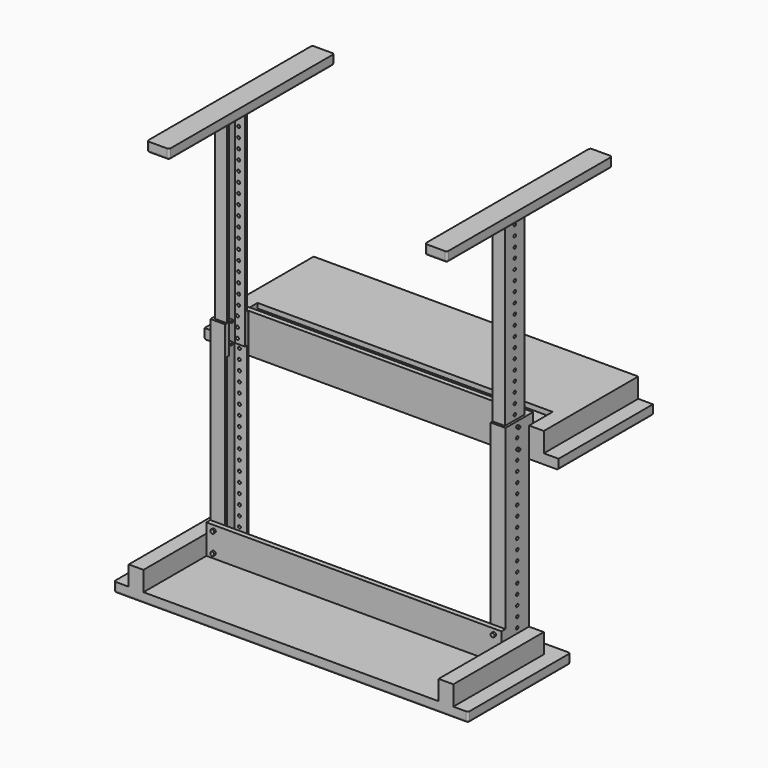
from build123d import *

# Parameters (mm, degrees)
F0_W      = 914.4
F0_H      = 330.2
F1_DEPTH  = 25.4
F3_DEPTH  = 50.8
F4_DEPTH  = 76.2
F2_W      = 6.35
F2_H      = 63.5
F5_DEPTH  = 533.4
F6_R      = 5.08
F7_DEPTH  = 5.08
F8_W      = 25.4
F8_H      = 6.35
F8_W_2    = 6.35
F8_H_2    = 50.8
F9_DEPTH  = 76.2
F10_DEPTH = 457.2
F11_W     = 6.35
F11_H     = 6.35
F11_H_2   = 50.8
F11_W_2   = 25.4
F12_DEPTH = 76.2
F13_DEPTH = 457.2
F14_R     = 3.81
F15_DEPTH = 50.8
F17_DEPTH = 38.1
F16_R     = 3.81
F18_DEPTH = 38.1
F19_R     = 3.81
F20_DEPTH = 25.4
F21_DEPTH = 6.35
F22_DEPTH = 25.4
F24_DEPTH = 6.35
F26_DEPTH = 5.08
F27_DEPTH = 25.4
F23_R     = 3.81
F28_DEPTH = 25.4
F29_R     = 3.81
F30_DEPTH = 25.4
F31_R     = 3.81
F32_DEPTH = 25.4
F33_R     = 3.81
F34_DEPTH = 25.4
F35_R     = 3.81
F36_DEPTH = 25.4
F37_W     = 723.9
F37_H     = 76.2
F37_W_2   = 38.1
F37_R     = 3.81
F38_DEPTH = 12.7
F37_W_3   = 76.2
F37_H_2   = 25.4
F39_DEPTH = 304.8
F41_DEPTH = 50.8
F42_R     = 5.08
F42_R_2   = 3.81
F43_DEPTH = 5.08
F44_R     = 5.08
F45_DEPTH = 5.08
F44_R_2   = 3.81
F46_DEPTH = 12.7
F47_W     = 31.75
F47_H     = 63.5
F48_DEPTH = 25.4
F49_W     = 31.75
F49_H     = 25.4
F50_DEPTH = 203.2
F51_DEPTH = 330.2
F52_W     = 31.75
F52_H     = 63.5
F53_DEPTH = 25.4
F54_W     = 31.75
F54_H     = 25.4
F55_DEPTH = 203.2
F56_DEPTH = 330.2
F58_DEPTH = 12.7
F59_DEPTH = 44.45
F60_W     = 533.4
F60_H     = 25.4
F61_DEPTH = 12.7
F62_DEPTH = 44.45
F63_R     = 5.08
F64_R     = 5.08
F65_R     = 5.08
F66_R     = 5.08
F67_R     = 5.08
F68_R     = 5.08
F69_R     = 5.08
F70_W     = 228.6
F70_H     = 12.7
F71_DEPTH = 767.08
F72_R     = 38.1
F73_DEPTH = 10.16
F72_R_2   = 44.45
F74_DEPTH = 15.24
F75_R     = 5.08


with BuildPart() as f1:
    # F0 (on Top) → F1 (new body)
    with BuildSketch(Plane.XY):
        Rectangle(F0_W, F0_H)
    extrude(amount=F1_DEPTH)

    # F2 (on face) → F3 (join)
    with BuildSketch(Plane.XY.offset(25.4)):
        Polygon((-381, 127), (-419.1, 127), (-419.1, -165.1), (-381, -165.1), (-381, 38.1), (-381, 50.8), (-381, 57.15), (-381, 120.65), align=None)
        Polygon((419.1, 127), (381, 127), (381, 120.65), (381, 57.15), (381, 50.8), (381, 38.1), (381, -165.1), (419.1, -165.1), align=None)
    extrude(amount=F3_DEPTH)

    # F2 (on face) → F4 (join)
    with BuildSketch(Plane.XY.offset(25.4)):
        Polygon((-381, 50.8), (-381, 38.1), (381, 38.1), (381, 50.8), (342.9, 50.8), (-342.9, 50.8), align=None)
    extrude(amount=F4_DEPTH)

    # F2 (on face) → F5 (join)
    with BuildSketch(Plane.XY.offset(25.4)):
        with Locations((-377.825, 88.9)):
            Rectangle(F2_W, F2_H)
        Polygon((-342.9, 127), (-381, 127), (-381, 120.65), (-374.65, 120.65), (-342.9, 120.65), align=None)
        Polygon((-374.65, 57.15), (-381, 57.15), (-381, 50.8), (-342.9, 50.8), (-342.9, 57.15), align=None)
        Polygon((381, 120.65), (381, 127), (342.9, 127), (342.9, 120.65), (374.65, 120.65), align=None)
        with Locations((377.825, 88.9)):
            Rectangle(F2_W, F2_H)
        Polygon((381, 50.8), (381, 57.15), (374.65, 57.15), (342.9, 57.15), (342.9, 50.8), align=None)
    extrude(amount=F5_DEPTH)

    # F6 (on face) → F7 (join)
    with BuildSketch(Plane.XZ.offset(-38.1)):
        with Locations((-361.95, 88.9)):
            Circle(F6_R)
        with Locations((-361.95, 38.1)):
            Circle(F6_R)
        with Locations((361.95, 88.9)):
            Circle(F6_R)
        with Locations((361.95, 38.1)):
            Circle(F6_R)
    extrude(amount=F7_DEPTH)

    # F8 (on face) → F9 (join)
    with BuildSketch(Plane.XY.offset(558.8)):
        with Locations((355.6, 117.475)):
            Rectangle(F8_W, F8_H)
        with Locations((355.6, 60.325)):
            Rectangle(F8_W, F8_H)
        with Locations((371.475, 60.325)):
            Rectangle(F8_W_2, F8_H)
        with Locations((371.475, 88.9)):
            Rectangle(F8_W_2, F8_H_2)
        with Locations((371.475, 117.475)):
            Rectangle(F8_W_2, F8_H)
    extrude(amount=-F9_DEPTH)

    # F8 (on face) → F10 (join)
    with BuildSketch(Plane.XY.offset(558.8)):
        with Locations((355.6, 117.475)):
            Rectangle(F8_W, F8_H)
        with Locations((371.475, 117.475)):
            Rectangle(F8_W_2, F8_H)
        with Locations((371.475, 88.9)):
            Rectangle(F8_W_2, F8_H_2)
        with Locations((371.475, 60.325)):
            Rectangle(F8_W_2, F8_H)
        with Locations((355.6, 60.325)):
            Rectangle(F8_W, F8_H)
    extrude(amount=F10_DEPTH)

    # F11 (on face) → F12 (join)
    with BuildSketch(Plane.XY.offset(558.8)):
        with Locations((-371.475, 117.475)):
            Rectangle(F11_W, F11_H)
        Polygon((-342.9, 120.65), (-368.3, 120.65), (-368.3, 114.3), (-342.8607285023, 114.3), (-342.8607285023, 120.65), align=None)
        with Locations((-371.475, 88.9)):
            Rectangle(F11_W, F11_H_2)
        with Locations((-371.475, 60.325)):
            Rectangle(F11_W, F11_H)
        with Locations((-355.6, 60.325)):
            Rectangle(F11_W_2, F11_H)
    extrude(amount=-F12_DEPTH)

    # F11 (on face) → F13 (join)
    with BuildSketch(Plane.XY.offset(558.8)):
        Polygon((-342.9, 120.65), (-368.3, 120.65), (-368.3, 114.3), (-342.8607285023, 114.3), (-342.8607285023, 120.65), align=None)
        with Locations((-371.475, 117.475)):
            Rectangle(F11_W, F11_H)
        with Locations((-371.475, 88.9)):
            Rectangle(F11_W, F11_H_2)
        with Locations((-371.475, 60.325)):
            Rectangle(F11_W, F11_H)
        with Locations((-355.6, 60.325)):
            Rectangle(F11_W_2, F11_H)
    extrude(amount=F13_DEPTH)

    # F14 (on face) → F15 (cut)
    with BuildSketch(Plane(origin=(-381, 0, 0), x_dir=(0, -1, 0), z_dir=(-1, 0, 0))):
        with Locations((-88.9, 88.9)):
            Circle(F14_R)
        with Locations((-88.9, 114.3)):
            Circle(F14_R)
        with Locations((-88.9, 139.7)):
            Circle(F14_R)
        with Locations((-88.9, 165.1)):
            Circle(F14_R)
        with Locations((-89.4429248598, 190.6809749533)):
            Circle(F14_R)
        with Locations((-88.9, 215.9)):
            Circle(F14_R)
        with Locations((-88.9, 241.3)):
            Circle(F14_R)
        with Locations((-88.9, 266.7)):
            Circle(F14_R)
        with Locations((-88.9, 292.1)):
            Circle(F14_R)
        with Locations((-88.318695071, 317.6937683097)):
            Circle(F14_R)
        with Locations((-88.9, 342.9)):
            Circle(F14_R)
        with Locations((-87.7193769664, 368.3)):
            Circle(F14_R)
        with Locations((-88.9, 393.7)):
            Circle(F14_R)
        with Locations((-87.7193769664, 418.7064589888)):
            Circle(F14_R)
        with Locations((-88.9, 444.5)):
            Circle(F14_R)
        with Locations((-88.9, 469.9)):
            Circle(F14_R)
        with Locations((-88.9, 520.7)):
            Circle(F14_R)
    extrude(amount=-F15_DEPTH, mode=Mode.SUBTRACT)

    # F6 (on face) → F17 (join)
    with BuildSketch(Plane.XZ.offset(-38.1)):
        with Locations((361.95, 88.9)):
            Circle(F6_R)
        with Locations((361.95, 38.1)):
            Circle(F6_R)
    extrude(amount=-F17_DEPTH)

    # F16 (on face) → F18 (cut)
    with BuildSketch(Plane.YZ.offset(381)):
        with Locations((88.9, 546.1)):
            Circle(F16_R)
        with Locations((88.9, 520.7)):
            Circle(F16_R)
        with Locations((88.9, 495.3)):
            Circle(F16_R)
        with Locations((88.9, 469.9)):
            Circle(F16_R)
        with Locations((88.9, 444.5)):
            Circle(F16_R)
        with Locations((88.9, 419.1)):
            Circle(F16_R)
        with Locations((88.9, 393.7)):
            Circle(F16_R)
        with Locations((88.9, 368.3)):
            Circle(F16_R)
        with Locations((88.9, 342.9)):
            Circle(F16_R)
        with Locations((88.9, 317.5)):
            Circle(F16_R)
        with Locations((88.9, 292.1)):
            Circle(F16_R)
        with Locations((88.9, 266.7)):
            Circle(F16_R)
        with Locations((88.9, 241.3)):
            Circle(F16_R)
        with Locations((88.9, 215.9)):
            Circle(F16_R)
        with Locations((88.9, 190.5)):
            Circle(F16_R)
        with Locations((88.9, 165.1)):
            Circle(F16_R)
        with Locations((88.9, 139.7)):
            Circle(F16_R)
        with Locations((88.9, 114.3)):
            Circle(F16_R)
        with Locations((88.9, 88.9)):
            Circle(F16_R)
    extrude(amount=-F18_DEPTH, mode=Mode.SUBTRACT)

    # F19 (on face) → F20 (cut)
    with BuildSketch(Plane(origin=(-374.65, 0, 0), x_dir=(0, -1, 0), z_dir=(-1, 0, 0))):
        with Locations((-88.9, 571.5)):
            Circle(F19_R)
        with Locations((-88.9, 596.9)):
            Circle(F19_R)
        with Locations((-88.9, 622.3)):
            Circle(F19_R)
        with Locations((-88.9, 647.7)):
            Circle(F19_R)
        with Locations((-88.9, 673.1)):
            Circle(F19_R)
        with Locations((-88.9, 698.5)):
            Circle(F19_R)
        with Locations((-88.9, 723.9)):
            Circle(F19_R)
        with Locations((-88.9, 749.3)):
            Circle(F19_R)
        with Locations((-88.9, 774.7)):
            Circle(F19_R)
        with Locations((-88.9, 800.1)):
            Circle(F19_R)
        with Locations((-88.9, 825.5)):
            Circle(F19_R)
        with Locations((-88.9, 850.9)):
            Circle(F19_R)
        with Locations((-88.9, 876.3)):
            Circle(F19_R)
        with Locations((-88.9, 901.7)):
            Circle(F19_R)
        with Locations((-88.9, 927.1)):
            Circle(F19_R)
        with Locations((-88.9, 952.5)):
            Circle(F19_R)
        with Locations((-88.9, 977.9)):
            Circle(F19_R)
        with Locations((-88.9, 1003.3)):
            Circle(F19_R)
    extrude(amount=-F20_DEPTH, mode=Mode.SUBTRACT)

    # F14 (on face) → F21 (join)
    with BuildSketch(Plane(origin=(-381, 0, 0), x_dir=(0, -1, 0), z_dir=(-1, 0, 0))):
        with Locations((-88.9, 546.1)):
            Circle(F14_R)
        with Locations((-88.9, 495.3)):
            Circle(F14_R)
    extrude(amount=F21_DEPTH)

    # F14 (on face) → F22 (join)
    with BuildSketch(Plane(origin=(-381, 0, 0), x_dir=(0, -1, 0), z_dir=(-1, 0, 0))):
        with Locations((-88.9, 546.1)):
            Circle(F14_R)
        with Locations((-88.9, 495.3)):
            Circle(F14_R)
    extrude(amount=-F22_DEPTH)

    # F23 (on face) → F28 (cut)
    with BuildSketch(Plane.YZ.offset(374.65)):
        with Locations((88.9, 571.5)):
            Circle(F23_R)
        with Locations((88.9, 596.9)):
            Circle(F23_R)
        with Locations((88.9, 647.7)):
            Circle(F23_R)
        with Locations((88.9, 622.3)):
            Circle(F23_R)
        with Locations((88.9, 673.1)):
            Circle(F23_R)
        with Locations((88.9, 698.5)):
            Circle(F23_R)
        with Locations((88.9, 723.9)):
            Circle(F23_R)
        with Locations((88.9, 749.3)):
            Circle(F23_R)
        with Locations((88.9, 774.7)):
            Circle(F23_R)
        with Locations((88.9, 800.1)):
            Circle(F23_R)
        with Locations((88.9, 825.5)):
            Circle(F23_R)
        with Locations((88.9, 850.9)):
            Circle(F23_R)
        with Locations((88.9, 876.3)):
            Circle(F23_R)
        with Locations((88.9, 901.7)):
            Circle(F23_R)
        with Locations((88.9, 927.1)):
            Circle(F23_R)
        with Locations((88.9, 952.5)):
            Circle(F23_R)
        with Locations((88.9, 977.9)):
            Circle(F23_R)
        with Locations((88.9, 1003.3)):
            Circle(F23_R)
    extrude(amount=-F28_DEPTH, mode=Mode.SUBTRACT)

    # F29 (on face) → F30 (cut)
    with BuildSketch(Plane(origin=(0, 127, 0), x_dir=(-1, 0, 0), z_dir=(0, 1, 0))):
        with Locations((-361.95, 546.1)):
            Circle(F29_R)
        with Locations((-361.95, 520.7)):
            Circle(F29_R)
        with Locations((-361.95, 495.3)):
            Circle(F29_R)
        with Locations((-361.95, 469.9)):
            Circle(F29_R)
        with Locations((-361.95, 444.5)):
            Circle(F29_R)
        with Locations((-361.95, 419.1)):
            Circle(F29_R)
        with Locations((-361.95, 393.7)):
            Circle(F29_R)
        with Locations((-361.95, 368.3)):
            Circle(F29_R)
        with Locations((-361.95, 342.9)):
            Circle(F29_R)
        with Locations((-361.95, 317.5)):
            Circle(F29_R)
        with Locations((-361.95, 292.1)):
            Circle(F29_R)
        with Locations((-361.95, 266.7)):
            Circle(F29_R)
        with Locations((-361.95, 241.3)):
            Circle(F29_R)
        with Locations((-361.95, 215.9)):
            Circle(F29_R)
        with Locations((-361.95, 190.5)):
            Circle(F29_R)
        with Locations((-361.95, 165.1)):
            Circle(F29_R)
        with Locations((-361.95, 139.7)):
            Circle(F29_R)
        with Locations((-361.95, 114.3)):
            Circle(F29_R)
        with Locations((-361.95, 88.9)):
            Circle(F29_R)
        with Locations((-361.95, 63.5)):
            Circle(F29_R)
        with Locations((-361.95, 38.1)):
            Circle(F29_R)
    extrude(amount=-F30_DEPTH, mode=Mode.SUBTRACT)

    # F31 (on face) → F32 (cut)
    with BuildSketch(Plane(origin=(0, 127, 0), x_dir=(-1, 0, 0), z_dir=(0, 1, 0))):
        with Locations((361.95, 546.1)):
            Circle(F31_R)
        with Locations((361.95, 520.7)):
            Circle(F31_R)
        with Locations((361.95, 495.3)):
            Circle(F31_R)
        with Locations((361.95, 469.9)):
            Circle(F31_R)
        with Locations((361.95, 444.5)):
            Circle(F31_R)
        with Locations((361.95, 393.7)):
            Circle(F31_R)
        with Locations((361.95, 368.3)):
            Circle(F31_R)
        with Locations((361.95, 342.9)):
            Circle(F31_R)
        with Locations((361.95, 317.5)):
            Circle(F31_R)
        with Locations((361.95, 292.1)):
            Circle(F31_R)
        with Locations((361.95, 266.7)):
            Circle(F31_R)
        with Locations((361.95, 241.3)):
            Circle(F31_R)
        with Locations((361.95, 215.9)):
            Circle(F31_R)
        with Locations((361.95, 190.5)):
            Circle(F31_R)
        with Locations((361.95, 165.1)):
            Circle(F31_R)
        with Locations((361.95, 139.7)):
            Circle(F31_R)
        with Locations((361.95, 114.3)):
            Circle(F31_R)
        with Locations((361.95, 88.9)):
            Circle(F31_R)
        with Locations((361.95, 64.0032659233)):
            Circle(F31_R)
        with Locations((361.95, 38.6032659233)):
            Circle(F31_R)
        with Locations((361.95, 419.1)):
            Circle(F31_R)
    extrude(amount=-F32_DEPTH, mode=Mode.SUBTRACT)

    # F33 (on face) → F34 (cut)
    with BuildSketch(Plane(origin=(0, 120.65, 0), x_dir=(-1, 0, 0), z_dir=(0, 1, 0))):
        with Locations((358.775, 571.5)):
            Circle(F33_R)
        with Locations((358.7553642511, 596.9)):
            Circle(F33_R)
        with Locations((358.7553642511, 622.3)):
            Circle(F33_R)
        with Locations((358.7553642511, 647.7)):
            Circle(F33_R)
        with Locations((358.7553642511, 673.1)):
            Circle(F33_R)
        with Locations((358.7553642511, 698.5)):
            Circle(F33_R)
        with Locations((358.7553642511, 723.9)):
            Circle(F33_R)
        with Locations((358.7553642511, 749.3)):
            Circle(F33_R)
        with Locations((358.7553642511, 774.7)):
            Circle(F33_R)
        with Locations((358.7553642511, 800.1)):
            Circle(F33_R)
        with Locations((358.7553642511, 825.5)):
            Circle(F33_R)
        with Locations((358.7553642511, 850.9)):
            Circle(F33_R)
        with Locations((358.7553642511, 876.3)):
            Circle(F33_R)
        with Locations((358.7553642511, 901.7)):
            Circle(F33_R)
        with Locations((358.7553642511, 1003.3)):
            Circle(F33_R)
        with Locations((358.7553642511, 977.9)):
            Circle(F33_R)
        with Locations((358.7553642511, 952.5)):
            Circle(F33_R)
        with Locations((358.7553642511, 927.1)):
            Circle(F33_R)
    extrude(amount=-F34_DEPTH, mode=Mode.SUBTRACT)

    # F35 (on face) → F36 (cut)
    with BuildSketch(Plane(origin=(0, 120.65, 0), x_dir=(-1, 0, 0), z_dir=(0, 1, 0))):
        with Locations((-358.775, 571.5)):
            Circle(F35_R)
        with Locations((-358.775, 596.9)):
            Circle(F35_R)
        with Locations((-358.775, 622.3)):
            Circle(F35_R)
        with Locations((-358.775, 647.7)):
            Circle(F35_R)
        with Locations((-358.775, 673.1)):
            Circle(F35_R)
        with Locations((-358.775, 698.5)):
            Circle(F35_R)
        with Locations((-358.775, 723.9)):
            Circle(F35_R)
        with Locations((-358.775, 749.3)):
            Circle(F35_R)
        with Locations((-358.775, 774.7)):
            Circle(F35_R)
        with Locations((-358.775, 800.1)):
            Circle(F35_R)
        with Locations((-358.775, 825.5)):
            Circle(F35_R)
        with Locations((-358.775, 850.9)):
            Circle(F35_R)
        with Locations((-358.775, 876.3)):
            Circle(F35_R)
        with Locations((-358.775, 901.7)):
            Circle(F35_R)
        with Locations((-358.775, 927.1)):
            Circle(F35_R)
        with Locations((-358.775, 952.5)):
            Circle(F35_R)
        with Locations((-358.775, 977.9)):
            Circle(F35_R)
        with Locations((-358.775, 1003.3)):
            Circle(F35_R)
    extrude(amount=-F36_DEPTH, mode=Mode.SUBTRACT)

    # F37 (on face) → F38 (join)
    with BuildSketch(Plane(origin=(0, 127, 0), x_dir=(-1, 0, 0), z_dir=(0, 1, 0))):
        with Locations((-19.05, 520.7)):
            Rectangle(F37_W, F37_H)
        with Locations((361.95, 520.7)):
            Rectangle(F37_W_2, F37_H)
        with Locations((361.95, 495.3)):
            Circle(F37_R, mode=Mode.SUBTRACT)
        with Locations((361.95, 520.7)):
            Circle(F37_R, mode=Mode.SUBTRACT)
        with Locations((361.95, 546.1)):
            Circle(F37_R, mode=Mode.SUBTRACT)
    extrude(amount=F38_DEPTH)

    # F37 (on face) → F39 (join)
    with BuildSketch(Plane(origin=(0, 127, 0), x_dir=(-1, 0, 0), z_dir=(0, 1, 0))):
        with Locations((419.1, 469.9)):
            Rectangle(F37_W_3, F37_H_2)
        with Locations((361.95, 469.9)):
            Rectangle(F37_W_2, F37_H_2)
        with Locations((361.95, 469.9)):
            Circle(F37_R, mode=Mode.SUBTRACT)
        with Locations((361.95, 469.9)):
            Rectangle(F37_W_2, F37_H_2)
        with Locations((361.95, 469.9)):
            Circle(F37_R, mode=Mode.SUBTRACT)
        with Locations((-19.05, 469.9)):
            Rectangle(F37_W, F37_H_2)
        with Locations((-419.1, 469.9)):
            Rectangle(F37_W_3, F37_H_2)
        with Locations((361.95, 469.9)):
            Circle(F37_R)
    extrude(amount=F39_DEPTH)

    # F40 (on face) → F41 (join)
    with BuildSketch(Plane.XY.offset(482.6)):
        Polygon((419.1, 431.8), (381, 431.8), (381, 139.7), (381, 127), (419.1, 127), align=None)
        Polygon((-381, 431.8), (-419.1, 431.8), (-419.1, 127), (-381, 127), (-381, 139.7), align=None)
    extrude(amount=F41_DEPTH)

    # F42 (on face) → F43 (join)
    with BuildSketch(Plane(origin=(0, 139.7, 0), x_dir=(-1, 0, 0), z_dir=(0, 1, 0))):
        with Locations((361.95, 495.3)):
            Circle(F42_R)
        with Locations((361.95, 495.3)):
            Circle(F42_R_2, mode=Mode.SUBTRACT)
        with Locations((361.95, 546.1)):
            Circle(F42_R)
        with Locations((361.95, 546.1)):
            Circle(F42_R_2, mode=Mode.SUBTRACT)
        with Locations((361.95, 495.3)):
            Circle(F42_R_2)
        with Locations((361.95, 546.1)):
            Circle(F42_R_2)
    extrude(amount=F43_DEPTH)

    # F44 (on face) → F45 (join)
    with BuildSketch(Plane(origin=(0, 139.7, 0), x_dir=(-1, 0, 0), z_dir=(0, 1, 0))):
        with Locations((-362.2871637344, 495.3175783157)):
            Circle(F44_R)
        with Locations((-362.2871637344, 544.5102453232)):
            Circle(F44_R)
    extrude(amount=F45_DEPTH)

    # F44 (on face) → F46 (cut)
    with BuildSketch(Plane(origin=(0, 139.7, 0), x_dir=(-1, 0, 0), z_dir=(0, 1, 0))):
        with Locations((-361.95, 519.9139118195)):
            Circle(F44_R_2)
    extrude(amount=-F46_DEPTH, mode=Mode.SUBTRACT)

    # F47 (on face) → F48 (join)
    with BuildSketch(Plane.XY.offset(1016)):
        with Locations((-358.775, 88.9)):
            Rectangle(F47_W, F47_H)
    extrude(amount=F48_DEPTH)

    # F49 (on face) → F50 (join)
    with BuildSketch(Plane.XZ.offset(-57.15)):
        with Locations((-358.775, 1028.7)):
            Rectangle(F49_W, F49_H)
    extrude(amount=F50_DEPTH)

    # F49 (on face) → F51 (join)
    with BuildSketch(Plane.XZ.offset(-57.15)):
        with Locations((-358.775, 1028.7)):
            Rectangle(F49_W, F49_H)
    extrude(amount=-F51_DEPTH)

    # F52 (on face) → F53 (join)
    with BuildSketch(Plane.XY.offset(1016)):
        with Locations((358.775, 88.9)):
            Rectangle(F52_W, F52_H)
    extrude(amount=F53_DEPTH)

    # F54 (on face) → F55 (join)
    with BuildSketch(Plane.XZ.offset(-57.15)):
        with Locations((358.775, 1028.7)):
            Rectangle(F54_W, F54_H)
    extrude(amount=F55_DEPTH)

    # F54 (on face) → F56 (join)
    with BuildSketch(Plane.XZ.offset(-57.15)):
        with Locations((358.775, 1028.7)):
            Rectangle(F54_W, F54_H)
    extrude(amount=-F56_DEPTH)

    # F57 (on face) → F58 (join)
    with BuildSketch(Plane(origin=(-374.65, 0, 0), x_dir=(0, -1, 0), z_dir=(-1, 0, 0))):
        Polygon((-387.35, 1041.4), (-387.35, 1016), (-120.65, 1016), (-57.15, 1016), (146.05, 1016), (146.05, 1041.4), align=None)
    extrude(amount=F58_DEPTH)

    # F57 (on face) → F59 (join)
    with BuildSketch(Plane(origin=(-374.65, 0, 0), x_dir=(0, -1, 0), z_dir=(-1, 0, 0))):
        Polygon((-387.35, 1041.4), (-387.35, 1016), (-120.65, 1016), (-57.15, 1016), (146.05, 1016), (146.05, 1041.4), align=None)
    extrude(amount=-F59_DEPTH)

    # F60 (on face) → F61 (join)
    with BuildSketch(Plane.YZ.offset(374.65)):
        with Locations((120.65, 1028.7)):
            Rectangle(F60_W, F60_H)
    extrude(amount=F61_DEPTH)

    # F60 (on face) → F62 (join)
    with BuildSketch(Plane.YZ.offset(374.65)):
        Polygon((120.65, 1016), (387.35, 1016), (387.35, 1041.4), (-146.05, 1041.4), (-146.05, 1016), (57.15, 1016), align=None)
    extrude(amount=-F62_DEPTH)

    # F63
    f63_edges = [f1.edges().sort_by_distance(p)[0] for p in [
        (-457.2, 0, 0),
    ]]
    fillet(f63_edges, radius=F63_R)

    # F64
    f64_edges = [f1.edges().sort_by_distance(p)[0] for p in [
        (457.2, 0, 0),
    ]]
    fillet(f64_edges, radius=F64_R)

    # F65
    f65_edges = [f1.edges().sort_by_distance(p)[0] for p in [
        (0, 165.1, 0),
        (0, -165.1, 0),
    ]]
    fillet(f65_edges, radius=F65_R)

    # F66
    f66_edges = [f1.edges().sort_by_distance(p)[0] for p in [
        (-457.2, 279.4, 457.2),
        (0, 431.8, 457.2),
        (457.2, 279.4, 457.2),
    ]]
    fillet(f66_edges, radius=F66_R)

    # F67
    f67_edges = [f1.edges().sort_by_distance(p)[0] for p in [
        (-387.35, 120.65, 1016),
        (-330.2, 120.65, 1016),
        (330.2, 120.65, 1016),
        (387.35, 120.65, 1016),
    ]]
    fillet(f67_edges, radius=F67_R)

    # F68
    f68_edges = [f1.edges().sort_by_distance(p)[0] for p in [
        (358.775, 387.35, 1016),
        (-358.775, 387.35, 1016),
    ]]
    fillet(f68_edges, radius=F68_R)

    # F69
    f69_edges = [f1.edges().sort_by_distance(p)[0] for p in [
        (-358.775, -146.05, 1016),
        (358.775, -146.05, 1016),
    ]]
    fillet(f69_edges, radius=F69_R)

    # F70 (on face) → F71 (join)
    with BuildSketch(Plane(origin=(381, 0, 0), x_dir=(0, -1, 0), z_dir=(-1, 0, 0))):
        with Locations((-317.5, 527.05)):
            Rectangle(F70_W, F70_H)
    extrude(amount=F71_DEPTH)

    # F72 (on face) → F73 (cut)
    with BuildSketch(Plane(origin=(0, 0, 457.2), x_dir=(1, 0, 0), z_dir=(0, 0, -1))):
        with Locations((375.92, -223.52)):
            Circle(F72_R)
    extrude(amount=-F73_DEPTH, mode=Mode.SUBTRACT)

    # F72 (on face) → F74 (join)
    with BuildSketch(Plane(origin=(0, 0, 457.2), x_dir=(1, 0, 0), z_dir=(0, 0, -1))):
        with Locations((375.92, -223.52)):
            Circle(F72_R_2)
        with Locations((375.92, -223.52)):
            Circle(F72_R, mode=Mode.SUBTRACT)
    extrude(amount=F74_DEPTH)

    # F75
    f75_edges = [f1.edges().sort_by_distance(p)[0] for p in [
        (331.47, 223.52, 441.96),
    ]]
    fillet(f75_edges, radius=F75_R)


with BuildPart() as f24:
    # F16 (on face) → F24 (new body)
    with BuildSketch(Plane.YZ.offset(381)):
        with Locations((88.9, 546.1)):
            Circle(F16_R)
    extrude(amount=F24_DEPTH)


with BuildPart() as f24b:
    # F16 (on face) → F24, piece 2 (new body)
    with BuildSketch(Plane.YZ.offset(381)):
        with Locations((88.9, 495.3)):
            Circle(F16_R)
    extrude(amount=F24_DEPTH)


with BuildPart() as f26:
    # F16 (on face) → F26 (new body)
    with BuildSketch(Plane.YZ.offset(381)):
        with Locations((88.9, 546.1)):
            Circle(F16_R)
    extrude(amount=F26_DEPTH)


with BuildPart() as f26b:
    # F16 (on face) → F26, piece 2 (new body)
    with BuildSketch(Plane.YZ.offset(381)):
        with Locations((88.9, 495.3)):
            Circle(F16_R)
    extrude(amount=F26_DEPTH)


with BuildPart() as f27:
    # F16 (on face) → F27 (new body)
    with BuildSketch(Plane.YZ.offset(381)):
        with Locations((88.9, 546.1)):
            Circle(F16_R)
    extrude(amount=-F27_DEPTH)


with BuildPart() as f27b:
    # F16 (on face) → F27, piece 2 (new body)
    with BuildSketch(Plane.YZ.offset(381)):
        with Locations((88.9, 495.3)):
            Circle(F16_R)
    extrude(amount=-F27_DEPTH)


solid = Compound([f1.part, f26.part, f26b.part, f27.part, f27b.part])
